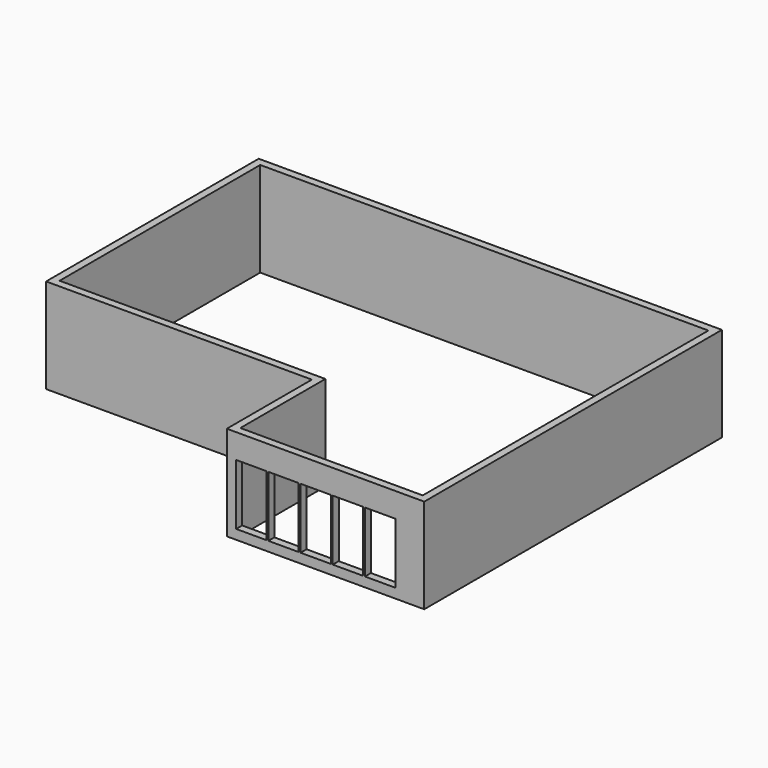
from build123d import *

# Parameters (mm, degrees)
F1_DEPTH = 2496
F2_W     = 800
F2_H     = 1600
F3_DEPTH = 200


with BuildPart() as f1:
    # F0 (on Top) → F1 (new body)
    with BuildSketch(Plane.XY):
        Polygon((-1374.605918, -1256.544261), (-1374.605918, -4056.544261), (3825.394082, -4056.544261), (3825.394082, 5743.455739), (-8374.605918, 5743.455739), (-8374.605918, -1256.544261), align=None)
        Polygon((-1176.605918, -1058.544261), (-8176.605918, -1058.544261), (-8176.605918, 5545.455739), (3627.394082, 5545.455739), (3627.394082, -3858.544261), (-1176.605918, -3858.544261), align=None, mode=Mode.SUBTRACT)
    extrude(amount=F1_DEPTH)

    # F2 (on face) → F3 (cut)
    with BuildSketch(Plane.XZ.offset(4056.544261)):
        with Locations((119.394082, 1052)):
            Rectangle(F2_W, F2_H)
        with Locations((-728.605918, 1052)):
            Rectangle(F2_W, F2_H)
        with Locations((967.394082, 1052)):
            Rectangle(F2_W, F2_H)
        with Locations((1815.394082, 1052)):
            Rectangle(F2_W, F2_H)
        with Locations((2663.394082, 1052)):
            Rectangle(F2_W, F2_H)
    extrude(amount=-F3_DEPTH, mode=Mode.SUBTRACT)


solid = f1.part
